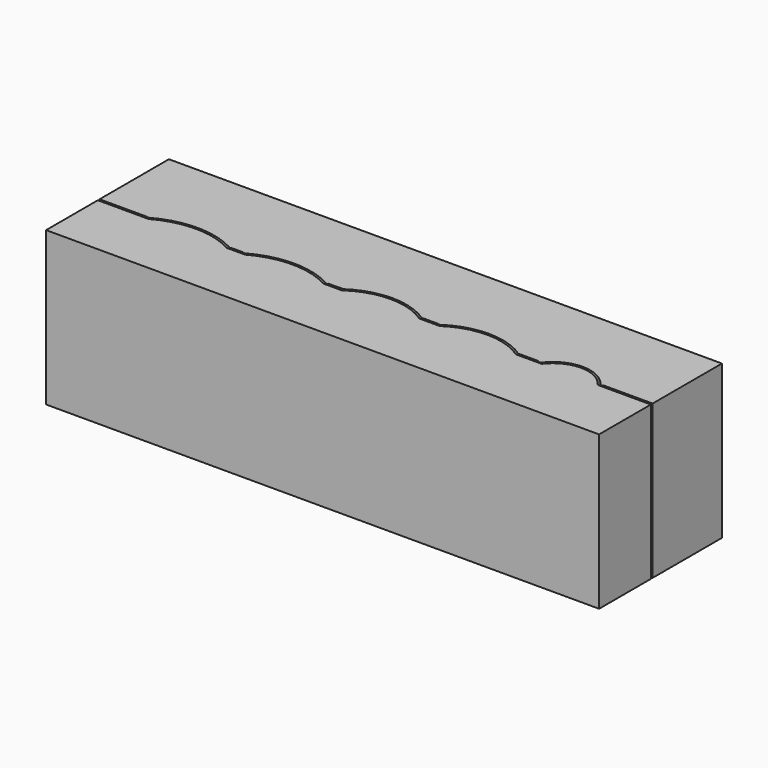
from build123d import *

# Parameters (mm, degrees)
F1_W     = 126.075398
F1_H     = 35
F2_DEPTH = 25
F3_DEPTH = 10
F4_DEPTH = 15
F5_DEPTH = 30


with BuildPart() as f2:
    # F1 (on Top) → F2 (new body)
    with BuildSketch(Plane.XY):
        with Locations((42.537699, -3.116712)):
            Rectangle(F1_W, F1_H)
    extrude(amount=F2_DEPTH)

    # F1 (on Top) → F3 (join)
    with BuildSketch(Plane.XY):
        with Locations((42.537699, -3.116712)):
            Rectangle(F1_W, F1_H)
    extrude(amount=-F3_DEPTH)

    # F0 (on Top) → F4 (cut)
    with BuildSketch(Plane.XY):
        with BuildLine():
            ThreePointArc((9.624188, -5.401612), (9.473953, -5.517668), (9.285504, -5.494723))
            ThreePointArc((9.285504, -5.494723), (0, -3.071195), (-9.285504, -5.494723))
            ThreePointArc((-9.285504, -5.494723), (-9.473953, -5.517668), (-9.624188, -5.401612))
            Line((-9.624188, -5.401612), (-9.638627, -5.376602))
            Line((-9.638627, -5.376602), (-31.341475, -5.376602))
            Line((-31.341475, -5.376602), (-31.341475, -5.876602))
            Line((-31.341475, -5.876602), (-8.943443, -5.876602))
            ThreePointArc((-8.943443, -5.876602), (0, -3.571195), (8.943443, -5.876602))
            Line((8.943443, -5.876602), (13.056557, -5.876602))
            ThreePointArc((13.056557, -5.876602), (22, -3.571195), (30.943443, -5.876602))
            Line((30.943443, -5.876602), (35.305954, -5.876602))
            Line((35.305954, -5.876602), (35.305954, -5.739065))
            ThreePointArc((35.305954, -5.739065), (43.984803, -3.071202), (52.668867, -5.722042))
            Line((52.668867, -5.722042), (57.331133, -5.722042))
            ThreePointArc((57.331133, -5.722042), (66.047789, -3.071269), (74.747935, -5.775741))
            Line((74.747935, -5.775741), (80.596593, -5.775741))
            ThreePointArc((80.596593, -5.775741), (87.063122, -2.571444), (93.478282, -5.877384))
            Line((93.478282, -5.877384), (106.779136, -5.877384))
            Line((106.779136, -5.877384), (106.779136, -5.377384))
            Line((106.779136, -5.377384), (94.350775, -5.377384))
            Line((94.350775, -5.377384), (94.143248, -5.524016))
            ThreePointArc((94.143248, -5.524016), (93.960144, -5.566804), (93.799013, -5.469879))
            ThreePointArc((93.799013, -5.469879), (87.003022, -2.071195), (80.204617, -5.465045))
            ThreePointArc((80.204617, -5.465045), (80.043417, -5.561856), (79.860343, -5.518938))
            Line((79.860343, -5.518938), (79.516667, -5.275741))
            Line((79.516667, -5.275741), (75.267808, -5.275741))
            ThreePointArc((75.267808, -5.275741), (75.114422, -5.349584), (74.949319, -5.3081))
            ThreePointArc((74.949319, -5.3081), (65.998621, -2.571195), (57.048395, -5.309642))
            ThreePointArc((57.048395, -5.309642), (56.862797, -5.348213), (56.703491, -5.245471))
            Line((56.703491, -5.245471), (56.687146, -5.222042))
            Line((56.687146, -5.222042), (53.309434, -5.222042))
            Line((53.309434, -5.222042), (53.294212, -5.243869))
            ThreePointArc((53.294212, -5.243869), (53.134924, -5.346638), (52.949319, -5.3081))
            ThreePointArc((52.949319, -5.3081), (43.998621, -2.571195), (35.048395, -5.309642))
            ThreePointArc((35.048395, -5.309642), (34.871524, -5.349677), (34.714123, -5.259616))
            Line((34.714123, -5.259616), (31.638627, -5.376602))
            Line((31.638627, -5.376602), (31.624188, -5.401612))
            ThreePointArc((31.624188, -5.401612), (31.473953, -5.517668), (31.285504, -5.494723))
            ThreePointArc((31.285504, -5.494723), (22, -3.071195), (12.714496, -5.494723))
            ThreePointArc((12.714496, -5.494723), (12.526047, -5.517668), (12.375812, -5.401612))
            Line((12.375812, -5.401612), (12.361373, -5.376602))
            Line((12.361373, -5.376602), (9.638627, -5.376602))
            Line((9.638627, -5.376602), (9.624188, -5.401612))
        make_face()
        with BuildLine():
            ThreePointArc((-9.285504, -5.494723), (0, -3.071195), (9.285504, -5.494723))
            ThreePointArc((9.285504, -5.494723), (9.473953, -5.517668), (9.624188, -5.401612))
            Line((9.624188, -5.401612), (9.638627, -5.376602))
            Line((9.638627, -5.376602), (10.374247, -4.102472))
            ThreePointArc((10.374247, -4.102472), (10.398828, -3.911314), (10.280123, -3.759475))
            ThreePointArc((10.280123, -3.759475), (9.566317, -3.376662), (8.83828, -3.021659))
            ThreePointArc((8.83828, -3.021659), (5.7333, -0.346633), (4.498053, 3.561158))
            ThreePointArc((4.498053, 3.561158), (0, 7.928805), (-4.498053, 3.561158))
            ThreePointArc((-4.498053, 3.561158), (-5.7333, -0.346633), (-8.83828, -3.021659))
            ThreePointArc((-8.83828, -3.021659), (-9.566317, -3.376662), (-10.280123, -3.759475))
            ThreePointArc((-10.280123, -3.759475), (-10.398828, -3.911314), (-10.374247, -4.102472))
            Line((-10.374247, -4.102472), (-9.638627, -5.376602))
            Line((-9.638627, -5.376602), (-9.624188, -5.401612))
            ThreePointArc((-9.624188, -5.401612), (-9.473953, -5.517668), (-9.285504, -5.494723))
        make_face()
        with BuildLine():
            Line((11.625753, -4.102472), (12.361373, -5.376602))
            Line((12.361373, -5.376602), (12.375812, -5.401612))
            ThreePointArc((12.375812, -5.401612), (12.526047, -5.517668), (12.714496, -5.494723))
            ThreePointArc((12.714496, -5.494723), (22, -3.071195), (31.285504, -5.494723))
            ThreePointArc((31.285504, -5.494723), (31.473953, -5.517668), (31.624188, -5.401612))
            Line((31.624188, -5.401612), (31.638627, -5.376602))
            Line((31.638627, -5.376602), (32.374247, -4.102472))
            ThreePointArc((32.374247, -4.102472), (32.398828, -3.911314), (32.280123, -3.759475))
            ThreePointArc((32.280123, -3.759475), (31.566317, -3.376662), (30.83828, -3.021659))
            ThreePointArc((30.83828, -3.021659), (27.7333, -0.346633), (26.498053, 3.561158))
            ThreePointArc((26.498053, 3.561158), (22, 7.928805), (17.501947, 3.561158))
            ThreePointArc((17.501947, 3.561158), (16.2667, -0.346633), (13.16172, -3.021659))
            ThreePointArc((13.16172, -3.021659), (12.433683, -3.376662), (11.719877, -3.759475))
            ThreePointArc((11.719877, -3.759475), (11.601172, -3.911314), (11.625753, -4.102472))
        make_face()
        with BuildLine():
            ThreePointArc((34.703491, -5.245471), (34.708682, -5.252637), (34.714123, -5.259616))
            ThreePointArc((34.714123, -5.259616), (34.871524, -5.349677), (35.048395, -5.309642))
            ThreePointArc((35.048395, -5.309642), (43.998621, -2.571195), (52.949319, -5.3081))
            ThreePointArc((52.949319, -5.3081), (53.134924, -5.346638), (53.294212, -5.243869))
            Line((53.294212, -5.243869), (53.309434, -5.222042))
            Line((53.309434, -5.222042), (54.152334, -4.013375))
            ThreePointArc((54.152334, -4.013375), (54.193078, -3.824758), (54.087376, -3.663316))
            ThreePointArc((54.087376, -3.663316), (52.978813, -2.970524), (51.822892, -2.360015))
            ThreePointArc((51.822892, -2.360015), (49.723682, -0.454601), (48.997959, 2.285948))
            ThreePointArc((48.997959, 2.285948), (44, 7.428805), (39.002041, 2.285948))
            ThreePointArc((39.002041, 2.285948), (38.276318, -0.454601), (36.177108, -2.360015))
            ThreePointArc((36.177108, -2.360015), (35.019843, -2.971298), (33.910055, -3.665055))
            ThreePointArc((33.910055, -3.665055), (33.804381, -3.826515), (33.845157, -4.015125))
            Line((33.845157, -4.015125), (34.703491, -5.245471))
        make_face()
        with BuildLine():
            Line((55.845157, -4.015125), (56.687146, -5.222042))
            Line((56.687146, -5.222042), (56.703491, -5.245471))
            ThreePointArc((56.703491, -5.245471), (56.862797, -5.348213), (57.048395, -5.309642))
            ThreePointArc((57.048395, -5.309642), (65.998621, -2.571195), (74.949319, -5.3081))
            ThreePointArc((74.949319, -5.3081), (75.114422, -5.349584), (75.267808, -5.275741))
            ThreePointArc((75.267808, -5.275741), (75.281671, -5.260352), (75.294212, -5.243869))
            Line((75.294212, -5.243869), (76.152334, -4.013375))
            ThreePointArc((76.152334, -4.013375), (76.193078, -3.824758), (76.087376, -3.663316))
            ThreePointArc((76.087376, -3.663316), (74.978813, -2.970524), (73.822892, -2.360015))
            ThreePointArc((73.822892, -2.360015), (71.723682, -0.454601), (70.997959, 2.285948))
            ThreePointArc((70.997959, 2.285948), (66, 7.428805), (61.002041, 2.285948))
            ThreePointArc((61.002041, 2.285948), (60.276318, -0.454601), (58.177108, -2.360015))
            ThreePointArc((58.177108, -2.360015), (57.019843, -2.971298), (55.910055, -3.665055))
            ThreePointArc((55.910055, -3.665055), (55.804381, -3.826515), (55.845157, -4.015125))
        make_face()
        with BuildLine():
            Line((94.143248, -5.524016), (94.350775, -5.377384))
            Line((94.350775, -5.377384), (95.368731, -4.65813))
            ThreePointArc((95.368731, -4.65813), (95.47135, -4.49331), (95.425064, -4.304753))
            ThreePointArc((95.425064, -4.304753), (94.881653, -3.633649), (94.284934, -3.009467))
            ThreePointArc((94.284934, -3.009467), (92.524954, -0.393838), (91.995383, 2.71399))
            ThreePointArc((91.995383, 2.71399), (87, 7.928805), (82.004617, 2.71399))
            ThreePointArc((82.004617, 2.71399), (81.475046, -0.393838), (79.715066, -3.009467))
            ThreePointArc((79.715066, -3.009467), (79.120814, -3.630847), (78.579394, -4.298764))
            ThreePointArc((78.579394, -4.298764), (78.532974, -4.487288), (78.635475, -4.652181))
            Line((78.635475, -4.652181), (79.516667, -5.275741))
            Line((79.516667, -5.275741), (79.860343, -5.518938))
            ThreePointArc((79.860343, -5.518938), (80.043417, -5.561856), (80.204617, -5.465045))
            ThreePointArc((80.204617, -5.465045), (87.003022, -2.071195), (93.799013, -5.469879))
            ThreePointArc((93.799013, -5.469879), (93.960144, -5.566804), (94.143248, -5.524016))
        make_face()
    extrude(amount=F4_DEPTH, mode=Mode.SUBTRACT)

    # F0 (on Top) → F5 (cut, symmetric)
    with BuildSketch(Plane.XY):
        with BuildLine():
            ThreePointArc((9.624188, -5.401612), (9.473953, -5.517668), (9.285504, -5.494723))
            ThreePointArc((9.285504, -5.494723), (0, -3.071195), (-9.285504, -5.494723))
            ThreePointArc((-9.285504, -5.494723), (-9.473953, -5.517668), (-9.624188, -5.401612))
            Line((-9.624188, -5.401612), (-9.638627, -5.376602))
            Line((-9.638627, -5.376602), (-31.341475, -5.376602))
            Line((-31.341475, -5.376602), (-31.341475, -5.876602))
            Line((-31.341475, -5.876602), (-8.943443, -5.876602))
            ThreePointArc((-8.943443, -5.876602), (0, -3.571195), (8.943443, -5.876602))
            Line((8.943443, -5.876602), (13.056557, -5.876602))
            ThreePointArc((13.056557, -5.876602), (22, -3.571195), (30.943443, -5.876602))
            Line((30.943443, -5.876602), (35.305954, -5.876602))
            Line((35.305954, -5.876602), (35.305954, -5.739065))
            ThreePointArc((35.305954, -5.739065), (43.984803, -3.071202), (52.668867, -5.722042))
            Line((52.668867, -5.722042), (57.331133, -5.722042))
            ThreePointArc((57.331133, -5.722042), (66.047789, -3.071269), (74.747935, -5.775741))
            Line((74.747935, -5.775741), (80.596593, -5.775741))
            ThreePointArc((80.596593, -5.775741), (87.063122, -2.571444), (93.478282, -5.877384))
            Line((93.478282, -5.877384), (106.779136, -5.877384))
            Line((106.779136, -5.877384), (106.779136, -5.377384))
            Line((106.779136, -5.377384), (94.350775, -5.377384))
            Line((94.350775, -5.377384), (94.143248, -5.524016))
            ThreePointArc((94.143248, -5.524016), (93.960144, -5.566804), (93.799013, -5.469879))
            ThreePointArc((93.799013, -5.469879), (87.003022, -2.071195), (80.204617, -5.465045))
            ThreePointArc((80.204617, -5.465045), (80.043417, -5.561856), (79.860343, -5.518938))
            Line((79.860343, -5.518938), (79.516667, -5.275741))
            Line((79.516667, -5.275741), (75.267808, -5.275741))
            ThreePointArc((75.267808, -5.275741), (75.114422, -5.349584), (74.949319, -5.3081))
            ThreePointArc((74.949319, -5.3081), (65.998621, -2.571195), (57.048395, -5.309642))
            ThreePointArc((57.048395, -5.309642), (56.862797, -5.348213), (56.703491, -5.245471))
            Line((56.703491, -5.245471), (56.687146, -5.222042))
            Line((56.687146, -5.222042), (53.309434, -5.222042))
            Line((53.309434, -5.222042), (53.294212, -5.243869))
            ThreePointArc((53.294212, -5.243869), (53.134924, -5.346638), (52.949319, -5.3081))
            ThreePointArc((52.949319, -5.3081), (43.998621, -2.571195), (35.048395, -5.309642))
            ThreePointArc((35.048395, -5.309642), (34.871524, -5.349677), (34.714123, -5.259616))
            Line((34.714123, -5.259616), (31.638627, -5.376602))
            Line((31.638627, -5.376602), (31.624188, -5.401612))
            ThreePointArc((31.624188, -5.401612), (31.473953, -5.517668), (31.285504, -5.494723))
            ThreePointArc((31.285504, -5.494723), (22, -3.071195), (12.714496, -5.494723))
            ThreePointArc((12.714496, -5.494723), (12.526047, -5.517668), (12.375812, -5.401612))
            Line((12.375812, -5.401612), (12.361373, -5.376602))
            Line((12.361373, -5.376602), (9.638627, -5.376602))
            Line((9.638627, -5.376602), (9.624188, -5.401612))
        make_face()
    extrude(amount=F5_DEPTH, both=True, mode=Mode.SUBTRACT)


solid = f2.part
